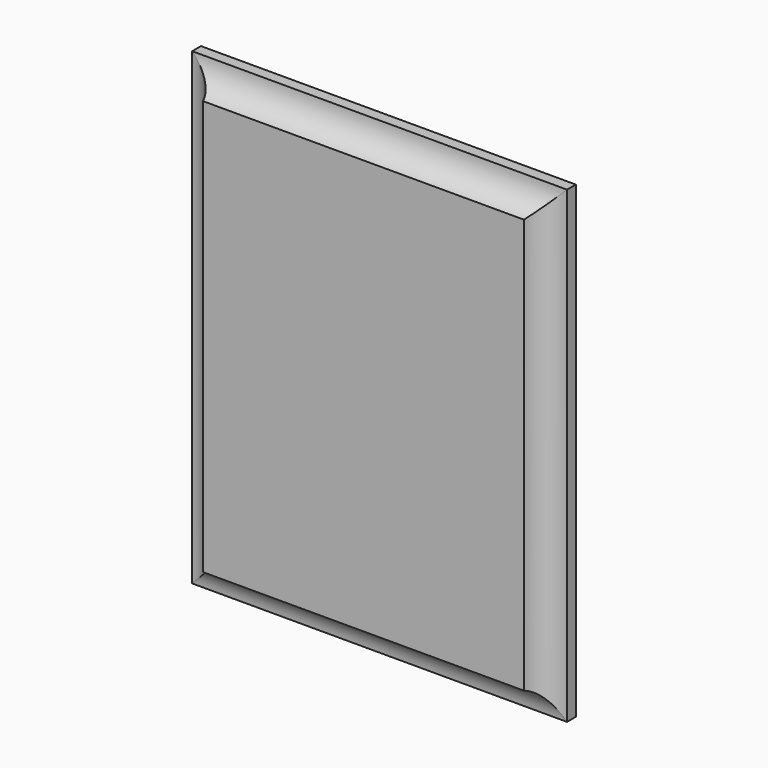
from build123d import *

# Parameters (mm, degrees)
F0_W     = 304.8
F0_H     = 381
F1_DEPTH = 12.7


with BuildPart() as f1:
    # F0 (on Front) → F1 (new body, symmetric)
    with BuildSketch(Plane.XZ):
        Rectangle(F0_W, F0_H)
    extrude(amount=F1_DEPTH, both=True)

    # F3: sweep along a path in F3_path
    with BuildLine(Plane(origin=(-152.4, -12.7, -190.5), x_dir=(0, 0, 1), z_dir=(0, -1, 0))) as f3_path:
        Line((0, 0), (381, 0))
        Line((381, 0), (381, -304.8))
        Line((381, -304.8), (0, -304.8))
        Line((0, -304.8), (0, 0))
    # F2 (on face) → F3 (sweep, cut)
    with BuildSketch(Plane(origin=(0, 0, -190.5), x_dir=(1, 0, 0), z_dir=(0, 0, -1))):
        with BuildLine():
            Line((-152.4, 12.7), (-152.4, -3.7338000257))
            ThreePointArc((-152.4, -3.7338000257), (-138.724124852, 0.8657698417), (-130.469635129, 12.7))
            Line((-130.469635129, 12.7), (-152.4, 12.7))
        make_face()
    sweep(path=f3_path.line, transition=Transition.RIGHT, mode=Mode.SUBTRACT)


solid = f1.part
